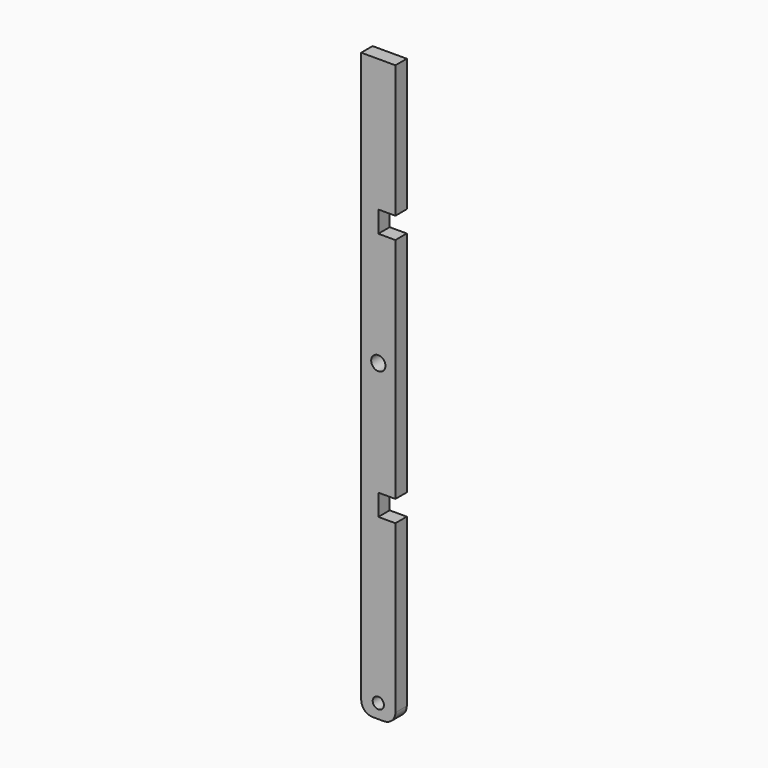
from build123d import *

# Parameters (mm, degrees)
F0_R     = 3.175
F0_R_2   = 2.5
F1_DEPTH = 6.35
F2_R     = 5.08


with BuildPart() as f1:
    # F0 (on Front) → F1 (new body)
    with BuildSketch(Plane.XZ):
        with Locations((7.62, 139.7)):
            Circle(F0_R)
        Polygon((0, 259.08), (0, 0), (15.24, 0), (15.24, 79.375), (7.62, 79.375), (7.62, 88.9), (15.24, 88.9), (15.24, 139.7), (15.24, 190.5), (7.62, 190.5), (7.62, 200.025), (15.24, 200.025), (15.24, 259.08), align=None)
        with Locations((7.62, 6.35)):
            Circle(F0_R_2, mode=Mode.SUBTRACT)
        with Locations((7.62, 139.7)):
            Circle(F0_R, mode=Mode.SUBTRACT)
    extrude(amount=F1_DEPTH)

    # F2
    f2_edges = [f1.edges().sort_by_distance(p)[0] for p in [
        (15.24, -3.175, 0),
        (0, -3.175, 0),
    ]]
    fillet(f2_edges, radius=F2_R)


solid = f1.part
